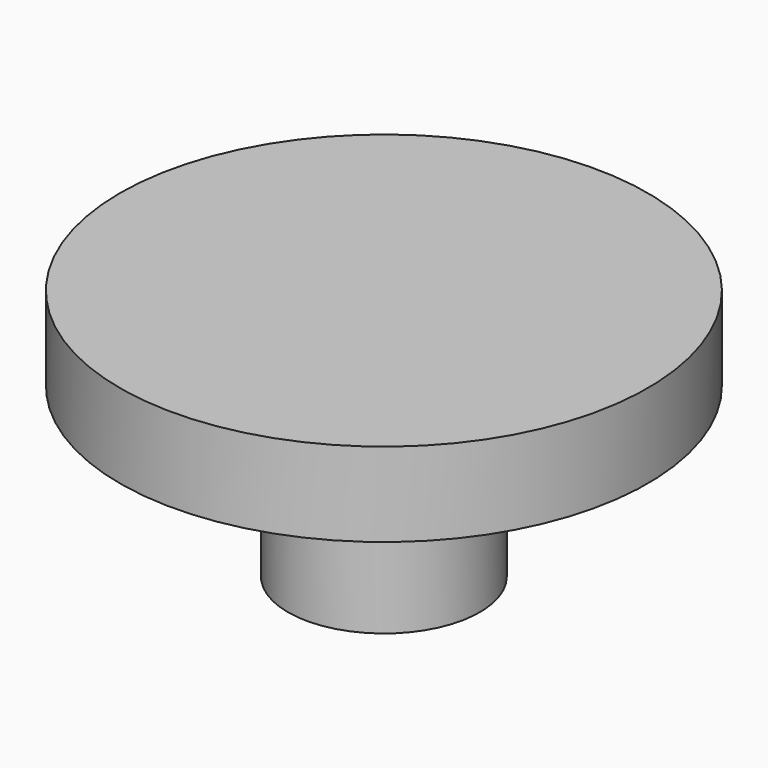
from build123d import *

# Parameters (mm, degrees)
F0_W = 4
F0_H = 7


with BuildPart() as f1:
    # F0 (on Front) → F1 (revolve)
    with BuildSketch(Plane.XZ):
        Polygon((-11, 7), (-4, 7), (0, 7), (0, 10.5), (-11, 10.5), align=None)
        with Locations((-2, 3.5)):
            Rectangle(F0_W, F0_H)
    revolve(axis=Axis((0, 0, 8.75), (0, 0, -1)))


solid = f1.part
